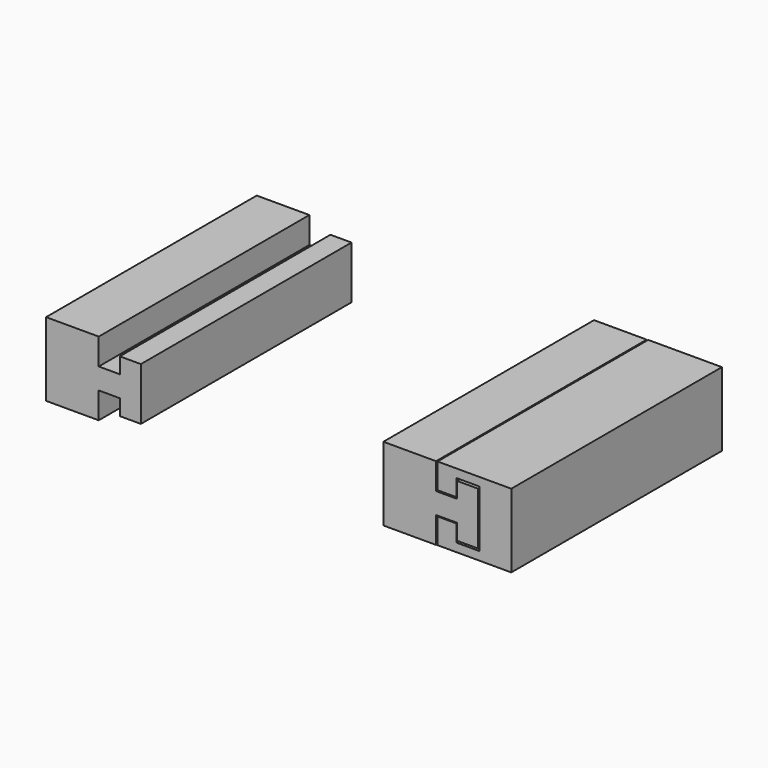
from build123d import *

# Parameters (mm, degrees)
F1_DEPTH = 25


with BuildPart() as f1:
    # F0 (on Front) → F1 (new body)
    with BuildSketch(Plane.XZ):
        Polygon((-17.7, 0), (-12.7, 0), (-12.7, 2.5), (-10.7, 2.5), (-10.7, 1), (-8.7, 1), (-8.7, 6), (-10.7, 6), (-10.7, 4.5), (-12.7, 4.5), (-12.7, 7), (-17.7, 7), align=None)
    extrude(amount=F1_DEPTH)


with BuildPart() as f1b:
    # F0 (on Front) → F1, piece 2 (new body)
    with BuildSketch(Plane.XZ):
        Polygon((4.7000000559, 7.3230322779), (-2.2999999441, 7.3230322779), (-2.2999999441, 4.9230322779), (-0.4999999441, 4.9230322779), (-0.4999999441, 6.5230322779), (1.7000000559, 6.5230322779), (1.7000000559, 1.1230322779), (-0.4999999441, 1.1230322779), (-0.4999999441, 2.7230322779), (-2.2999999441, 2.7230322779), (-2.2999999441, 0.3230322779), (4.7000000559, 0.3230322779), align=None)
    extrude(amount=F1_DEPTH)


with BuildPart() as f2_1:
    # F2: copy of F1
    add(f1.part.moved(Location((-21.7, 0, 0))))


with BuildPart() as f1_1:
    # F3: moved
    add(f1.part.moved(Location((10.326, 0, 0))))


with BuildPart() as f1b_1:
    # F4: moved
    add(f1b.part.moved(Location((0.07, 0, -0.3))))


solid = Compound([f2_1.part, f1_1.part, f1b_1.part])
